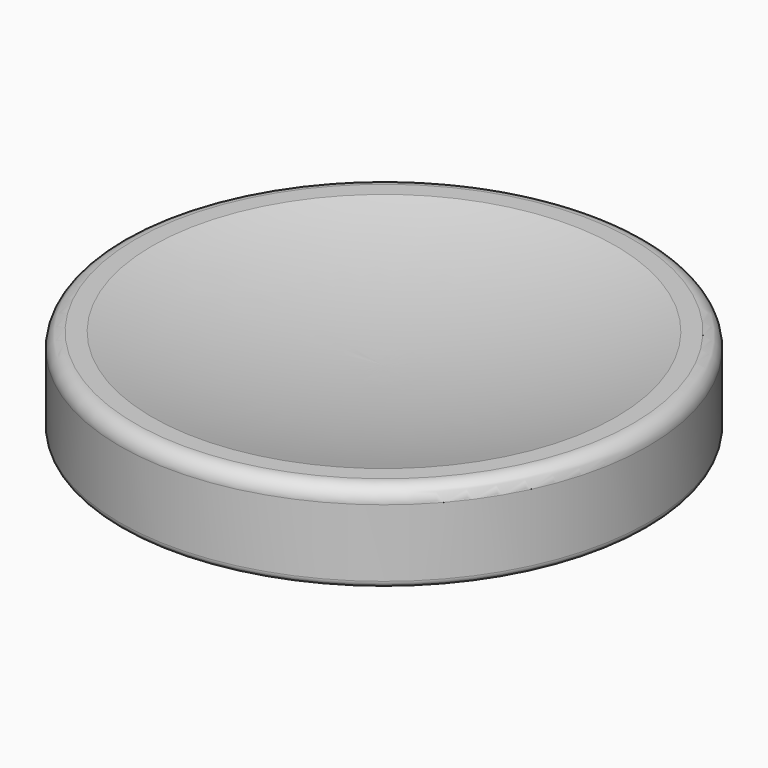
from build123d import *

# Parameters (mm, degrees)
F2_R     = 0.4
F3_R     = 2.49
F4_DEPTH = 1.4
F5_R     = 0.175


with BuildPart() as f1:
    # F0 (on Front) → F1 (revolve)
    with BuildSketch(Plane.XZ):
        with BuildLine():
            Line((-7, 0), (0, 0))
            Line((0, 0), (0, 1.573037))
            ThreePointArc((0, 1.573037), (-3.097478, 1.770684), (-6.144713, 2.360421))
            Line((-6.144713, 2.360421), (-7, 2.360421))
            Line((-7, 2.360421), (-7, 0))
        make_face()
    revolve(axis=Axis((0, 0, 0.786518), (0, 0, 1)))

    # F2
    f2_edges = [f1.edges().sort_by_distance(p)[0] for p in [
        (7, 0, 2.360421),
    ]]
    fillet(f2_edges, radius=F2_R)

    # F3 (on face) → F4 (join)
    with BuildSketch(Plane(origin=(0, 0, 0), x_dir=(1, 0, 0), z_dir=(0, 0, -1))):
        Circle(F3_R)
    extrude(amount=F4_DEPTH)

    # F5
    f5_edges = [f1.edges().sort_by_distance(p)[0] for p in [
        (-2.49, 0, -1.4),
        (-2.49, 0, 0),
        (7, 0, 0),
    ]]
    fillet(f5_edges, radius=F5_R)


solid = f1.part
